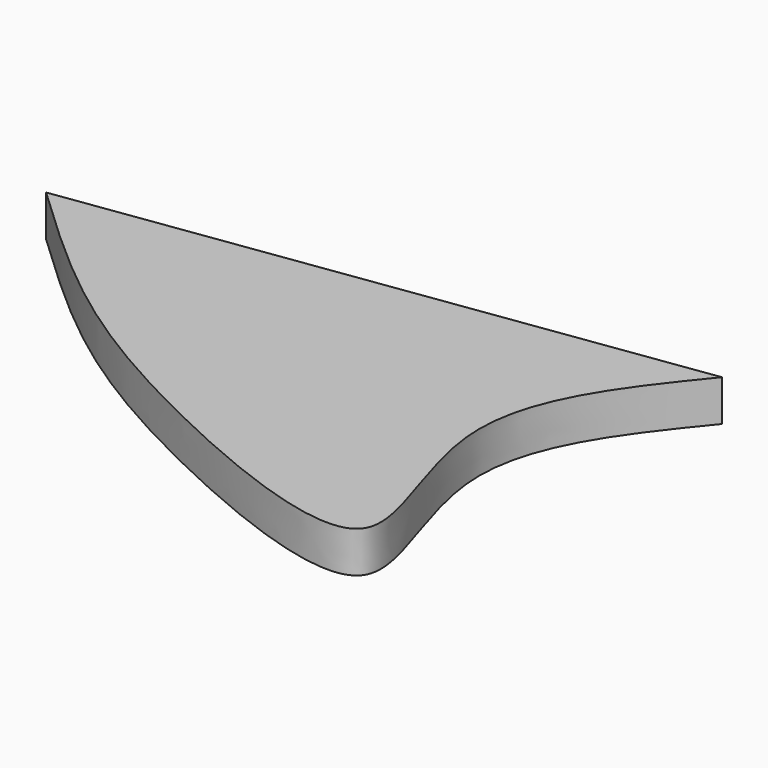
from build123d import *

# Parameters (mm, degrees)
F1_DEPTH = 3.175


with BuildPart() as f1:
    # F0 (on Top) → F1 (new body)
    with BuildSketch(Plane.XY):
        with BuildLine():
            Line((0, 15.1746431366), (-46.7878319323, 8.5710464045))
            add(Edge.make_bspline(
                [(-46.7878319323, 8.5710464045), (-43.6877719115, 5.6348018829), (-36.9467759075, -0.749981784), (-23.9993855301, -8.8572757825), (1.3098648149, -19.1213590434), (-10.9956100262, 1.6644286131), (-3.7736953357, 10.5379350858), (0, 15.1746431366)],
                knots=[0, 0, 0, 0, 0.1807318089, 0.3929963915, 0.6056236032, 0.7939249585, 1, 1, 1, 1], degree=3))
        make_face()
    extrude(amount=F1_DEPTH)


solid = f1.part
